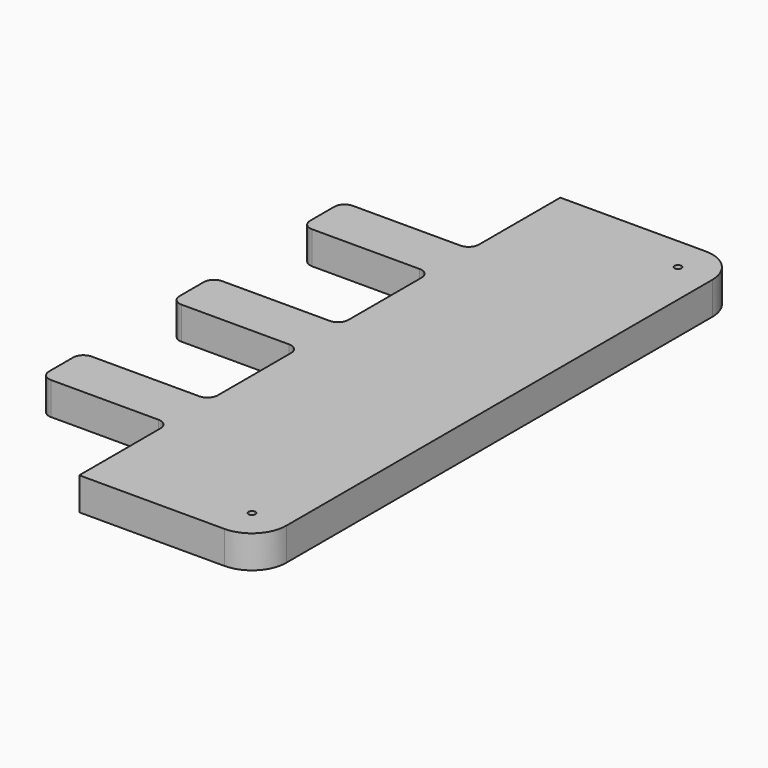
from build123d import *

# Parameters (mm, degrees)
PAD014_DEPTH    = 19
FILLET002_R     = 20
FILLET003_R     = 6
SKETCH029_R     = 2
POCKET019_DEPTH = 19.001


with BuildPart() as part:
    # Sketch017 → Pad014 (new body)
    with BuildSketch(Plane.XY):
        Polygon((275, 216.2), (379.498932, 216.2), (379.498932, -133.8), (275, -133.8), (275, -68.6), (200.4, -68.6), (200.4, -39), (275, -39), (275, 26.4), (200.4, 26.4), (200.4, 56), (275, 56), (275, 121.4), (200.4, 121.4), (200.4, 151), (275, 151), align=None)
    extrude(amount=-PAD014_DEPTH)

    # Fillet002
    fillet002_edges = [part.edges().sort_by_distance(p)[0] for p in [
        (379.498932, 216.2, -9.5),
        (379.498932, -133.8, -9.5),
    ]]
    fillet(fillet002_edges, radius=FILLET002_R)

    # Fillet003
    fillet003_edges = [part.edges().sort_by_distance(p)[0] for p in [
        (200.4, 151, -9.5),
        (200.4, 121.4, -9.5),
        (200.4, 26.4, -9.5),
        (200.4, 56, -9.5),
        (200.4, -39, -9.5),
        (200.4, -68.6, -9.5),
        (275, 151, -9.5),
        (275, 121.4, -9.5),
        (275, 26.4, -9.5),
        (275, -68.6, -9.5),
        (275, -39, -9.5),
        (275, 56, -9.5),
    ]]
    fillet(fillet003_edges, radius=FILLET003_R)

    # Sketch029 (on Face32 of Fillet003) → Pocket019 (cut, through all)
    with BuildSketch(Plane(origin=(0, 0, -19), x_dir=(1, 0, 0), z_dir=(0, 0, -1))):
        with Locations((359.498932, 113.8)):
            Circle(SKETCH029_R)
        with Locations((359.498932, -196.2)):
            Circle(SKETCH029_R)
    extrude(amount=-POCKET019_DEPTH, mode=Mode.SUBTRACT)


with BuildPart() as part_1:
    # Body010 placement: moved
    add(part.part.moved(Location((0, 0, -9))))


with BuildPart() as part_2:
    # Clone placement: moved
    add(part_1.part.moved(Location((-199.4, 134.8, 9))))


solid = part_2.part
